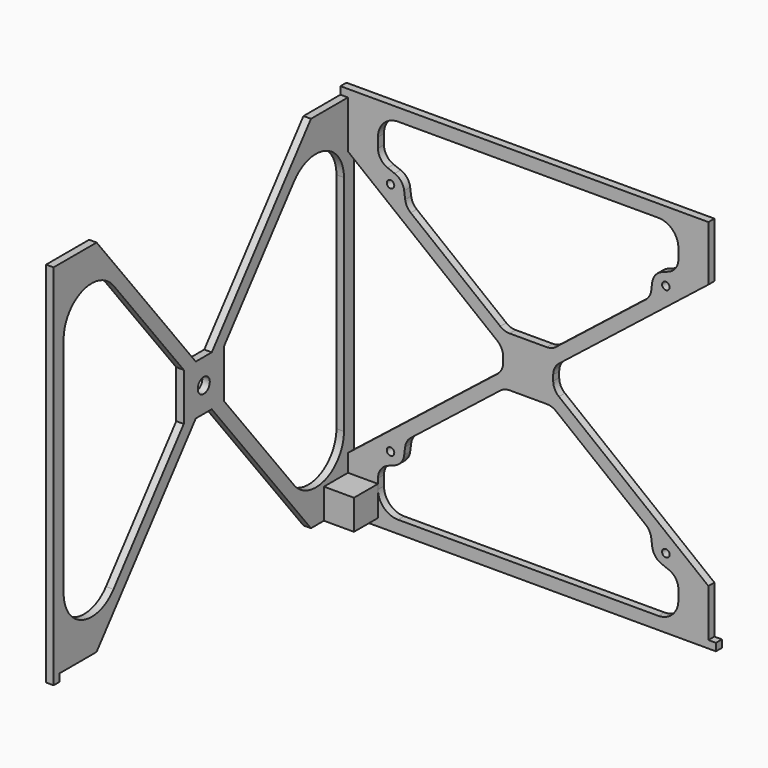
from build123d import *

# Parameters (mm, degrees)
SKETCH_R                = 3
PAD_DEPTH               = 3
BODY_ROLL_ANGLE         = 90
BODY_PLACEMENT_ANGLE    = -90
SKETCH001_R             = 1.5
PAD001_DEPTH            = 3
FILLET001_R             = 6
BODY007_PITCH_ANGLE     = 90
BODY007_PLACEMENT_ANGLE = 90
BOX_W                   = 12
BOX_H                   = 12
BOX_DEPTH               = 12


with BuildPart() as body:
    # Sketch → Pad (new body)
    with BuildSketch(Plane.XY):
        Polygon((75, -75), (75, 72), (53.526126, 72), (4, 10), (-4, 10), (-53.526126, 72), (-75, 72), (-75, -72), (-53.526126, -72), (-4, -10), (4, -10), (53.526126, -72), (72, -72), (72, -75), align=None)
        Circle(SKETCH_R, mode=Mode.SUBTRACT)
        with BuildLine():
            Line((45.061482, 53.392225), (10, 9.5))
            Line((10, 9.5), (10, -9.5))
            Line((10, -9.5), (45.061482, -53.392225))
            ThreePointArc((45.061482, -53.392225), (60.629295, -57.866924), (70, -44.654444))
            Line((70, 44.654416), (70, -44.654444))
            ThreePointArc((70, 44.654416), (60.629309, 57.86692), (45.061482, 53.392225))
        make_face(mode=Mode.SUBTRACT)
        with BuildLine():
            Line((-45.061482, 53.392225), (-10, 9.5))
            Line((-10, 9.5), (-10, -9.5))
            Line((-10, -9.5), (-45.061482, -53.392225))
            ThreePointArc((-70, -44.654444), (-60.629295, -57.866924), (-45.061482, -53.392225))
            Line((-70, -44.654444), (-70, 44.654444))
            ThreePointArc((-45.061482, 53.392225), (-60.629295, 57.866924), (-70, 44.654444))
        make_face(mode=Mode.SUBTRACT)
    extrude(amount=PAD_DEPTH)


with BuildPart() as body_1:
    # Body roll: moved
    add(body.part.rotate(Axis((0, 0, 0), (1, 0, 0)), BODY_ROLL_ANGLE))


with BuildPart() as body_2:
    # Body placement: moved
    add(body_1.part.moved(Location((-72, 27, -72))).rotate(Axis((-72, 27, -72), (0, 0, 1)), BODY_PLACEMENT_ANGLE))


with BuildPart() as body007:
    # Sketch001 → Pad001 (new body)
    with BuildSketch(Plane.XY):
        Polygon((75, -75), (75, 75), (72, 75), (72, 72), (53, 72), (4.023122, 10), (-3.976878, 10), (-53, 72), (-72, 72), (-72, 75), (-75, 75), (-75, -72), (-53, -72), (-4.023122, -10), (4.023122, -10), (53, -72), (72, -72), (72, -75), align=None)
        with Locations((-47, 55)):
            Circle(SKETCH001_R, mode=Mode.SUBTRACT)
        with Locations((-47, -55)):
            Circle(SKETCH001_R, mode=Mode.SUBTRACT)
        with Locations((47, -55)):
            Circle(SKETCH001_R, mode=Mode.SUBTRACT)
        with Locations((47, 55)):
            Circle(SKETCH001_R, mode=Mode.SUBTRACT)
        with BuildLine():
            Line((10, -9.5), (39.567025, -46.929))
            ThreePointArc((39.567025, -46.929), (41.319973, -48.431482), (43.510485, -49.160818))
            Line((43.510485, -49.160818), (46.486017, -49.543191))
            ThreePointArc((51.323701, -53.34652), (49.429581, -50.77743), (46.486017, -49.543191))
            Line((51.323701, -53.34652), (52.397569, -56.147735))
            ThreePointArc((52.397569, -56.147735), (54.600471, -58.944007), (58, -60))
            Line((58, -60), (62, -60))
            ThreePointArc((62, -60), (67.656854, -57.656854), (70, -52))
            Line((70, -52), (70, 52))
            ThreePointArc((70, 52), (67.656854, 57.656854), (62, 60))
            Line((62, 60), (58, 60))
            ThreePointArc((58, 60), (54.600471, 58.944007), (52.397569, 56.147735))
            Line((52.397569, 56.147735), (51.323701, 53.34652))
            ThreePointArc((46.486017, 49.543191), (49.429581, 50.77743), (51.323701, 53.34652))
            Line((46.486017, 49.543191), (43.510485, 49.160818))
            ThreePointArc((43.510485, 49.160818), (41.319973, 48.431482), (39.567025, 46.929))
            Line((39.567025, 46.929), (10, 9.5))
            Line((10, 9.5), (10, -9.5))
        make_face(mode=Mode.SUBTRACT)
        with BuildLine():
            Line((-10, -9.5), (-39.567025, -46.929))
            ThreePointArc((-43.510485, -49.160818), (-41.319973, -48.431482), (-39.567025, -46.929))
            Line((-46.486017, -49.543191), (-43.510485, -49.160818))
            ThreePointArc((-46.486017, -49.543191), (-49.429581, -50.77743), (-51.323701, -53.34652))
            Line((-52.397569, -56.147735), (-51.323701, -53.34652))
            ThreePointArc((-58, -60), (-54.600471, -58.944007), (-52.397569, -56.147735))
            Line((-62, -60), (-58, -60))
            ThreePointArc((-70, -52), (-67.656854, -57.656854), (-62, -60))
            Line((-70, -52), (-70, 52))
            ThreePointArc((-62, 60), (-67.656854, 57.656854), (-70, 52))
            Line((-62, 60), (-58, 60))
            ThreePointArc((-52.396365, 56.144591), (-54.599084, 58.943053), (-58, 60))
            Line((-52.396365, 56.144591), (-51.324069, 53.342773))
            ThreePointArc((-51.324069, 53.342773), (-49.434161, 50.774803), (-46.495513, 49.537637))
            Line((-46.495513, 49.537637), (-43.52065, 49.150097))
            ThreePointArc((-39.589231, 46.921777), (-41.337136, 48.420209), (-43.52065, 49.150097))
            Line((-39.589231, 46.921777), (-10, 9.5))
            Line((-10, 9.5), (-10, -9.5))
        make_face(mode=Mode.SUBTRACT)
    extrude(amount=PAD001_DEPTH)

    # Fillet001
    fillet001_edges = [body007.edges().sort_by_distance(p)[0] for p in [
        (4.023122, 10, 1.5),
        (-3.976878, 10, 1.5),
        (-10, 9.5, 1.5),
        (-10, -9.5, 1.5),
        (4.023122, -10, 1.5),
        (-4.023122, -10, 1.5),
        (10, 9.5, 1.5),
        (10, -9.5, 1.5),
    ]]
    fillet(fillet001_edges, radius=FILLET001_R)


with BuildPart() as body007_1:
    # Body007 pitch: moved
    add(body007.part.rotate(Axis((0, 0, 0), (0, 1, 0)), BODY007_PITCH_ANGLE))


with BuildPart() as body007_2:
    # Body007 placement: moved
    add(body007_1.part.moved(Location((0, 99, -72))).rotate(Axis((0, 99, -72), (0, 0, 1)), BODY007_PLACEMENT_ANGLE))


with BuildPart() as cube:
    # Box → Box (new body)
    with BuildSketch(Plane(origin=(-72, 99, -144), x_dir=(0, -1, 0), z_dir=(0, 0, 1))):
        with Locations((6, 6)):
            Rectangle(BOX_W, BOX_H)
    extrude(amount=BOX_DEPTH)


solid = Compound([body_2.part, body007_2.part, cube.part])
